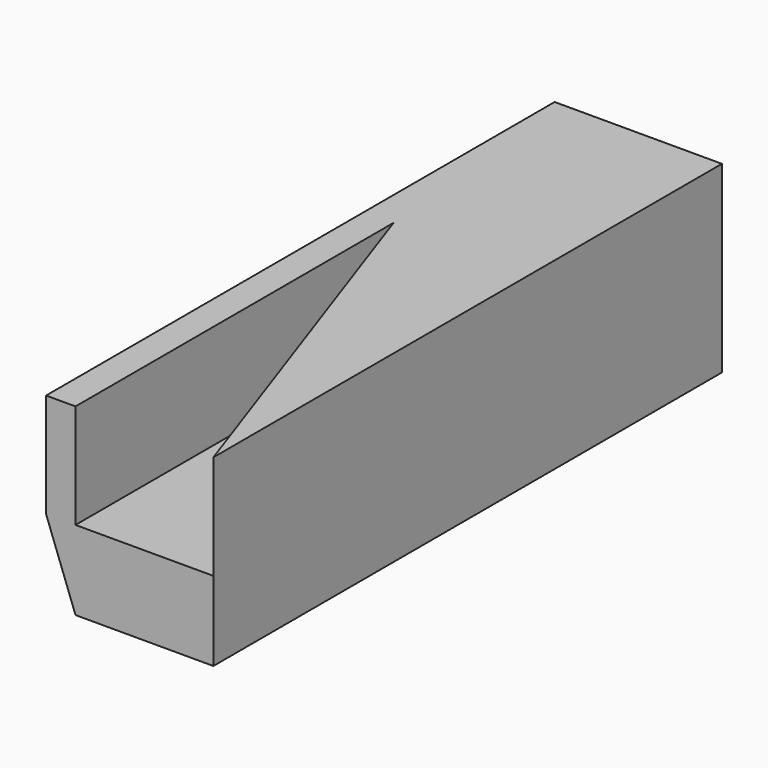
from build123d import *

# Parameters (mm, degrees)
F0_W     = 70.53198
F0_H     = 77.455252
F1_DEPTH = 134
F3_DEPTH = 44
F5_DEPTH = 225


with BuildPart() as f1:
    # F0 (on Front) → F1 (new body, symmetric)
    with BuildSketch(Plane.XZ):
        Rectangle(F0_W, F0_H)
    extrude(amount=F1_DEPTH, both=True)

    # F2 (on face) → F3 (cut)
    with BuildSketch(Plane.XY.offset(38.727626)):
        Polygon((-22.860736, 33.643957), (-22.860736, -134), (35.26599, -134), align=None)
    extrude(amount=-F3_DEPTH, mode=Mode.SUBTRACT)

    # F4 (on face) → F5 (cut)
    with BuildSketch(Plane.XZ.offset(134)):
        Polygon((-22.860736, -38.727626), (-35.26599, -5.272374), (-35.26599, -38.727626), align=None)
    extrude(amount=-F5_DEPTH, mode=Mode.SUBTRACT)


solid = f1.part
